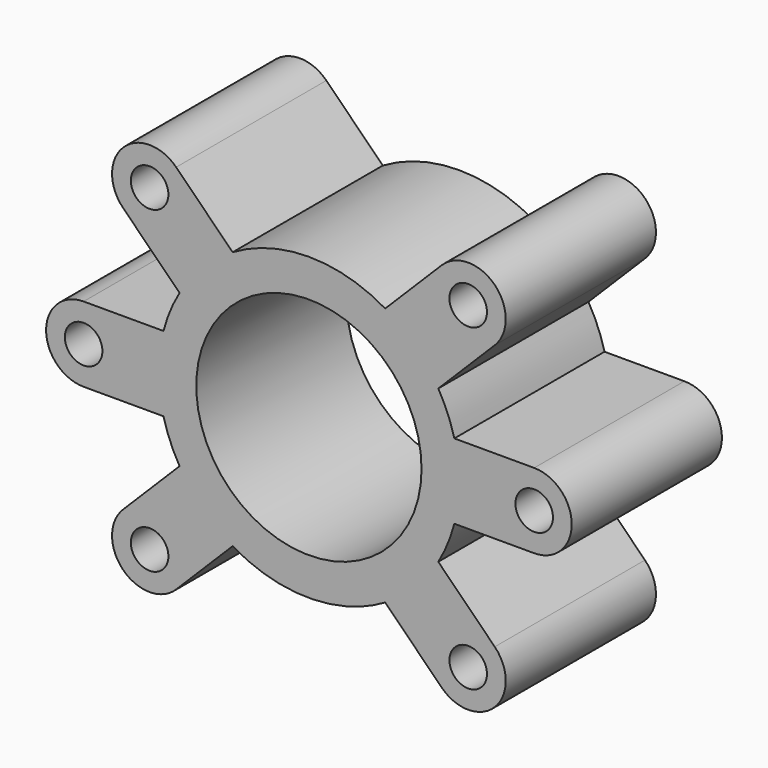
from build123d import *

# Parameters (mm, degrees)
F0_R     = 5
F0_R_2   = 30
F1_DEPTH = 25


with BuildPart() as f1:
    # F0 (on Front) → F1 (new body, symmetric)
    with BuildSketch(Plane.XZ):
        with BuildLine():
            Line((-60, -10), (-38.729833, -10))
            ThreePointArc((-38.729833, -10), (-36.955181, -15.307337), (-34.457196, -20.31506))
            Line((-34.457196, -20.31506), (-49.497475, -35.355339))
            ThreePointArc((-49.497475, -35.355339), (-49.497475, -49.497475), (-35.355339, -49.497475))
            Line((-35.355339, -49.497475), (-20.31506, -34.457196))
            ThreePointArc((-20.31506, -34.457196), (-5.58247, -39.608535), (10, -38.729833))
            ThreePointArc((10, -38.729833), (15.307337, -36.955181), (20.31506, -34.457196))
            Line((20.31506, -34.457196), (35.355339, -49.497475))
            ThreePointArc((35.355339, -49.497475), (49.497475, -49.497475), (49.497475, -35.355339))
            Line((49.497475, -35.355339), (34.457196, -20.31506))
            ThreePointArc((34.457196, -20.31506), (36.955181, -15.307337), (38.729833, -10))
            Line((38.729833, -10), (60, -10))
            ThreePointArc((60, -10), (70, 0), (60, 10))
            Line((60, 10), (38.729833, 10))
            ThreePointArc((38.729833, 10), (36.955181, 15.307337), (34.457196, 20.31506))
            ThreePointArc((34.457196, 20.31506), (28.284271, 28.284271), (20.31506, 34.457196))
            ThreePointArc((20.31506, 34.457196), (0, 40), (-20.31506, 34.457196))
            Line((-20.31506, 34.457196), (-35.355339, 49.497475))
            ThreePointArc((-35.355339, 49.497475), (-49.497475, 49.497475), (-49.497475, 35.355339))
            Line((-49.497475, 35.355339), (-34.457196, 20.31506))
            ThreePointArc((-34.457196, 20.31506), (-36.955181, 15.307337), (-38.729833, 10))
            Line((-38.729833, 10), (-60, 10))
            ThreePointArc((-60, 10), (-70, 0), (-60, -10))
        make_face()
        with Locations((-42.426407, -42.426407)):
            Circle(F0_R, mode=Mode.SUBTRACT)
        with Locations((-60, 0)):
            Circle(F0_R, mode=Mode.SUBTRACT)
        with Locations((42.426407, -42.426407)):
            Circle(F0_R, mode=Mode.SUBTRACT)
        Circle(F0_R_2, mode=Mode.SUBTRACT)
        with Locations((60, 0)):
            Circle(F0_R, mode=Mode.SUBTRACT)
        with Locations((-42.426407, 42.426407)):
            Circle(F0_R, mode=Mode.SUBTRACT)
        with BuildLine():
            Line((35.355339, 49.497475), (20.31506, 34.457196))
            ThreePointArc((20.31506, 34.457196), (28.284271, 28.284271), (34.457196, 20.31506))
            Line((34.457196, 20.31506), (49.497475, 35.355339))
            ThreePointArc((49.497475, 35.355339), (49.497475, 49.497475), (35.355339, 49.497475))
        make_face()
        with Locations((42.426407, 42.426407)):
            Circle(F0_R, mode=Mode.SUBTRACT)
    extrude(amount=F1_DEPTH, both=True)


solid = f1.part
